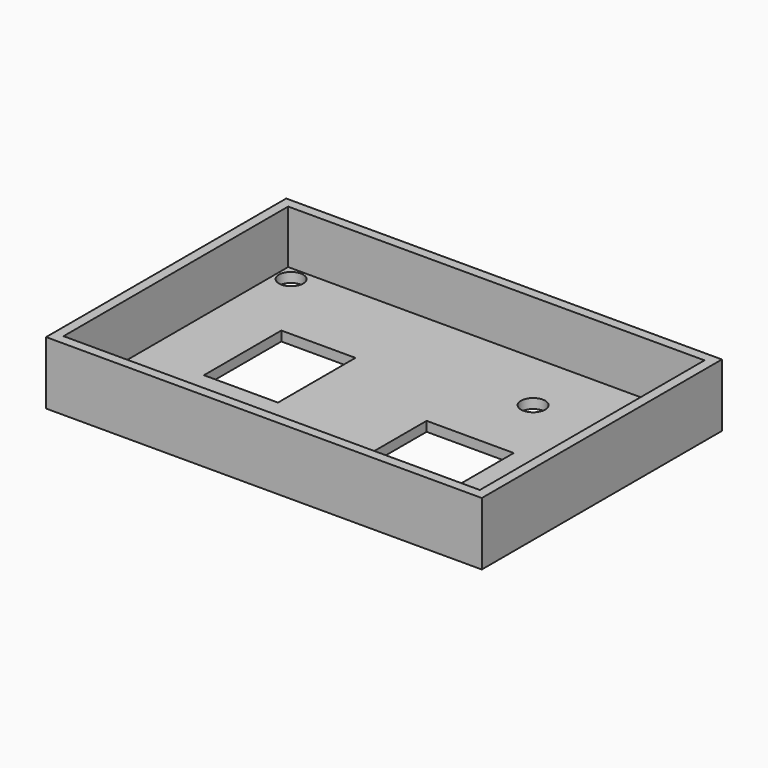
from build123d import *

# Parameters (mm, degrees)
SKETCH003_W  = 90
SKETCH003_H  = 13
PAD003_DEPTH = 2
SKETCH002_W  = 60
SKETCH002_H  = 13
PAD002_DEPTH = 2
SKETCH_W     = 90
SKETCH_H     = 60
SKETCH_R     = 2.5
SKETCH_W_2   = 18
SKETCH_H_2   = 18
SKETCH_W_3   = 15.3
SKETCH_H_3   = 20
PAD_DEPTH    = 2
SKETCH001_W  = 90
SKETCH001_H  = 13
PAD001_DEPTH = 2
SKETCH004_W  = 60
SKETCH004_H  = 13
PAD004_DEPTH = 2


with BuildPart() as body003:
    # Sketch003 → Pad003 (new body)
    with BuildSketch(Plane.XZ):
        with Locations((0, 6.5)):
            Rectangle(SKETCH003_W, SKETCH003_H)
    extrude(amount=PAD003_DEPTH)


with BuildPart() as body003_1:
    # Body003 placement: moved
    add(body003.part.moved(Location((0, -30, 0))))


with BuildPart() as body002:
    # Sketch002 → Pad002 (new body)
    with BuildSketch(Plane.YZ):
        with Locations((0, 6.5)):
            Rectangle(SKETCH002_W, SKETCH002_H)
    extrude(amount=PAD002_DEPTH)


with BuildPart() as body002_1:
    # Body002 placement: moved
    add(body002.part.moved(Location((43, 0, 0))))


with BuildPart() as body:
    # Sketch → Pad (new body)
    with BuildSketch(Plane.XY):
        Rectangle(SKETCH_W, SKETCH_H)
        with Locations((-40, 25)):
            Circle(SKETCH_R, mode=Mode.SUBTRACT)
        with Locations((-40, -25)):
            Circle(SKETCH_R, mode=Mode.SUBTRACT)
        with Locations((40, -25)):
            Circle(SKETCH_R, mode=Mode.SUBTRACT)
        with Locations((40, 25)):
            Circle(SKETCH_R, mode=Mode.SUBTRACT)
        with Locations((18, 15)):
            Circle(SKETCH_R, mode=Mode.SUBTRACT)
        with Locations((17, -9)):
            Rectangle(SKETCH_W_2, SKETCH_H_2, mode=Mode.SUBTRACT)
        with Locations((-22.35, 0)):
            Rectangle(SKETCH_W_3, SKETCH_H_3, mode=Mode.SUBTRACT)
    extrude(amount=PAD_DEPTH)


with BuildPart() as body001:
    # Sketch001 → Pad001 (new body)
    with BuildSketch(Plane.XZ):
        with Locations((0, 6.5)):
            Rectangle(SKETCH001_W, SKETCH001_H)
    extrude(amount=PAD001_DEPTH)


with BuildPart() as body001_1:
    # Body001 placement: moved
    add(body001.part.moved(Location((0, 30, 0))))


with BuildPart() as fusion001:
    # Fusion base: copy of Body
    add(body.part)

    # Fusion: union Body001
    add(body001_1.part)

    # Fusion001: union Body002, Body, Body001
    add(body002_1.part)
    add(body.part)
    add(body001_1.part)


with BuildPart() as fusion002:
    # Fusion002 base: copy of Fusion001
    add(fusion001.part)

    # Fusion002: union Body003
    add(body003_1.part)


with BuildPart() as body004:
    # Sketch004 → Pad004 (new body)
    with BuildSketch(Plane.YZ):
        with Locations((0, 6.5)):
            Rectangle(SKETCH004_W, SKETCH004_H)
    extrude(amount=PAD004_DEPTH)


with BuildPart() as body004_1:
    # Body004 placement: moved
    add(body004.part.moved(Location((-45, 0, 0))))


with BuildPart() as fusion004:
    # Fusion003 base: copy of Fusion002
    add(fusion002.part)

    # Fusion003: union Body004
    add(body004_1.part)

    # Fusion004: union Fusion002, Body004, Fusion001, Body003
    add(fusion002.part)
    add(body004_1.part)
    add(fusion001.part)
    add(body003_1.part)


solid = fusion004.part
